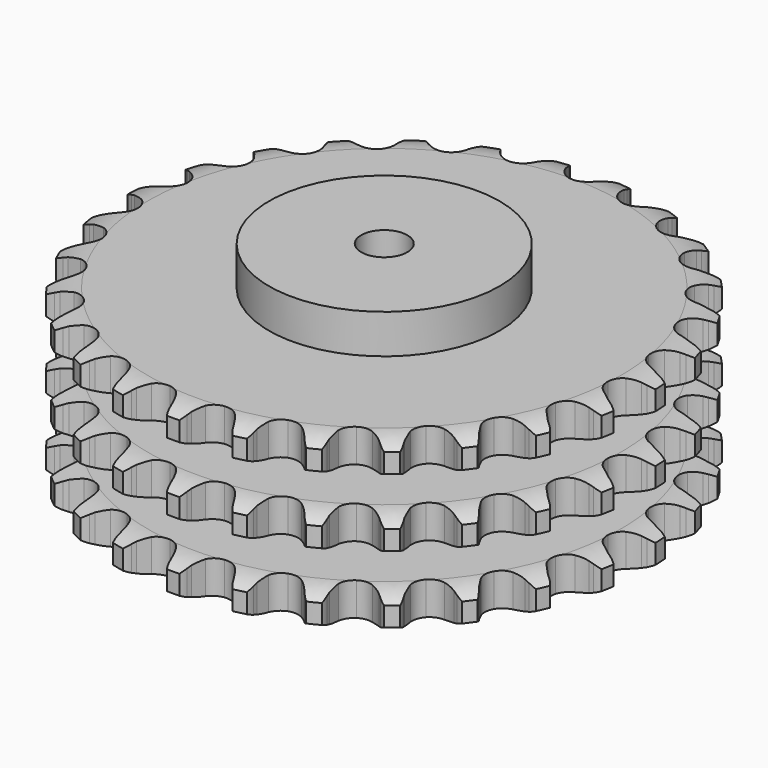
from build123d import *

# Parameters (mm, degrees)
PAD_DEPTH         = 146
SKETCH001_R       = 100
PAD001_DEPTH      = 180
SKETCH002_R       = 20
POCKET_DEPTH      = 0.001
POCKET_DEPTH_BACK = 180.001


with BuildPart() as part:
    # Sprocket → Pad (new body)
    with BuildSketch(Plane.XY):
        with BuildLine():
            ThreePointArc((-27.349241, 233.987712), (-21.95658, 229.063344), (-18.298161, 222.743046))
            Line((-18.298161, 222.743046), (-16.875709, 219.093948))
            ThreePointArc((-16.875709, 219.093948), (-14.617409, 214.311678), (-11.718382, 209.888368))
            ThreePointArc((-11.718382, 209.888368), (-6.540751, 205.607595), (0, 204.074145))
            ThreePointArc((0, 204.074145), (6.540751, 205.607595), (11.718382, 209.888368))
            ThreePointArc((11.718382, 209.888368), (14.617409, 214.311678), (16.875709, 219.093948))
            Line((16.875709, 219.093948), (18.298161, 222.743046))
            ThreePointArc((18.298161, 222.743046), (21.95658, 229.063344), (27.349241, 233.987712))
            ThreePointArc((27.349241, 233.987712), (31.460904, 227.952448), (33.563149, 220.958825))
            Line((33.563149, 220.958825), (34.105719, 217.080049))
            ThreePointArc((34.105719, 217.080049), (35.200279, 211.905886), (37.001077, 206.933245))
            ThreePointArc((37.001077, 206.933245), (41.051931, 201.573816), (47.062737, 198.5733))
            ThreePointArc((47.062737, 198.5733), (53.780818, 198.557015), (59.8061, 201.528355))
            Line((59.8061, 201.528355), (66.947364, 209.296436))
            ThreePointArc((66.947364, 209.296436), (68.018734, 210.936414), (69.173014, 212.519132))
            ThreePointArc((69.173014, 212.519132), (74.190381, 217.825376), (80.573319, 221.373374))
            ThreePointArc((80.573319, 221.373374), (83.182324, 214.552576), (83.615062, 207.262657))
            Line((83.615062, 207.262657), (83.2485, 203.363308))
            ThreePointArc((83.2485, 203.363308), (83.120311, 198.076192), (83.725799, 192.822297))
            ThreePointArc((83.725799, 192.822297), (86.431492, 186.673141), (91.588309, 182.367317))
            ThreePointArc((91.588309, 182.367317), (98.121548, 180.802174), (104.669656, 182.303896))
            Line((104.669656, 182.303896), (113.409869, 188.215699))
            ThreePointArc((113.409869, 188.215699), (114.830565, 189.564396), (116.318731, 190.838257))
            ThreePointArc((116.318731, 190.838257), (122.424558, 194.844386), (129.453668, 196.82474))
            ThreePointArc((129.453668, 196.82474), (130.419363, 189.58612), (129.159266, 182.392904))
            Line((129.159266, 182.392904), (127.903332, 178.683199))
            ThreePointArc((127.903332, 178.683199), (126.559306, 173.56816), (125.936841, 168.316249))
            ThreePointArc((125.936841, 168.316249), (127.151509, 161.708869), (131.176332, 156.329865))
            ThreePointArc((131.176332, 156.329865), (137.17252, 153.300242), (143.890444, 153.251387))
            Line((143.890444, 153.251387), (153.758419, 156.988205))
            ThreePointArc((153.758419, 156.988205), (155.45185, 157.972912), (157.193675, 158.869242))
            ThreePointArc((157.193675, 158.869242), (164.058796, 161.359284), (171.355136, 161.665233))
            ThreePointArc((171.355136, 161.665233), (170.62546, 154.399026), (167.740459, 147.690304))
            Line((167.740459, 147.690304), (165.662863, 144.370232))
            ThreePointArc((165.662863, 144.370232), (163.175456, 139.703023), (161.358595, 134.736228))
            ThreePointArc((161.358595, 134.736228), (161.016755, 128.02683), (163.692605, 121.864629))
            ThreePointArc((163.692605, 121.864629), (168.828486, 117.533854), (175.35406, 115.937056))
            Line((175.35406, 115.937056), (185.817812, 117.297436))
            ThreePointArc((185.817812, 117.297436), (187.692686, 117.865068), (189.594268, 118.335544))
            ThreePointArc((189.594268, 118.335544), (196.848581, 119.175261), (204.018805, 117.790312))
            ThreePointArc((204.018805, 117.790312), (201.633095, 110.888242), (197.278721, 105.02568))
            Line((197.278721, 105.02568), (194.491465, 102.274228))
            ThreePointArc((194.491465, 102.274228), (190.994775, 98.30646), (188.081466, 93.892543))
            ThreePointArc((188.081466, 93.892543), (186.201546, 87.442831), (187.384167, 80.82964))
            ThreePointArc((187.384167, 80.82964), (191.382864, 75.431186), (197.364294, 72.372528))
            Line((197.364294, 72.372528), (207.859719, 71.283132))
            ThreePointArc((207.859719, 71.283132), (209.814961, 71.403088), (211.773784, 71.422347))
            ThreePointArc((211.773784, 71.422347), (219.026209, 70.56647), (225.683767, 67.565285))
            ThreePointArc((225.683767, 67.565285), (221.770637, 61.399443), (216.181637, 56.699095))
            Line((216.181637, 56.699095), (212.834983, 54.664594))
            ThreePointArc((212.834983, 54.664594), (208.517516, 51.61017), (204.664816, 47.987086))
            ThreePointArc((204.664816, 47.987086), (201.348164, 42.144766), (200.9738, 35.437103))
            ThreePointArc((200.9738, 35.437103), (203.619743, 29.262002), (208.734568, 24.906379))
            Line((208.734568, 24.906379), (218.695855, 21.425936))
            ThreePointArc((218.695855, 21.425936), (220.626057, 21.091748), (222.536521, 20.658753))
            ThreePointArc((222.536521, 20.658753), (229.396077, 18.153422), (235.182059, 13.697795))
            ThreePointArc((235.182059, 13.697795), (229.952467, 8.600584), (223.430144, 5.315848))
            Line((223.430144, 5.315848), (219.704511, 4.107978))
            ThreePointArc((219.704511, 4.107978), (214.799023, 2.131563), (210.214633, -0.505367))
            ThreePointArc((210.214633, -0.505367), (205.64005, -5.425334), (203.728884, -11.865856))
            ThreePointArc((203.728884, -11.865856), (204.879429, -18.484703), (208.851907, -23.90248))
            Line((208.851907, -23.90248), (217.742041, -29.586338))
            ThreePointArc((217.742041, -29.586338), (219.543145, -30.356653), (221.302257, -31.21856))
            ThreePointArc((221.302257, -31.21856), (227.399143, -35.238282), (232.001625, -40.908146))
            ThreePointArc((232.001625, -40.908146), (225.737499, -44.661934), (218.633474, -46.353979))
            Line((218.633474, -46.353979), (214.729713, -46.6701))
            ThreePointArc((214.729713, -46.6701), (209.50066, -47.461957), (204.431725, -48.970575))
            ThreePointArc((204.431725, -48.970575), (198.845828, -52.702952), (195.50089, -58.529124))
            ThreePointArc((195.50089, -58.529124), (195.094011, -65.234893), (197.709985, -71.42275))
            Line((197.709985, -71.42275), (205.049697, -79.003605))
            ThreePointArc((205.049697, -79.003605), (206.624605, -80.168519), (208.137531, -81.412873))
            ThreePointArc((208.137531, -81.412873), (213.143063, -86.730281), (216.313923, -93.308718))
            ThreePointArc((216.313923, -93.308718), (209.352965, -95.516715), (202.050217, -95.524851))
            Line((202.050217, -95.524851), (198.17878, -94.932181))
            ThreePointArc((198.17878, -94.932181), (192.908062, -94.496791), (187.62785, -94.795767))
            ThreePointArc((187.62785, -94.795767), (181.331776, -97.139341), (176.733394, -102.037072))
            ThreePointArc((176.733394, -102.037072), (174.791025, -108.468254), (175.909468, -115.092601))
            Line((175.909468, -115.092601), (181.303071, -124.161767))
            ThreePointArc((181.303071, -124.161767), (182.566879, -125.658479), (183.752056, -127.218196))
            ThreePointArc((183.752056, -127.218196), (187.396385, -133.546628), (188.964682, -140.678994))
            ThreePointArc((188.964682, -140.678994), (181.682158, -141.222166), (174.574381, -139.545953))
            Line((174.574381, -139.545953), (170.943978, -138.076444))
            ThreePointArc((170.943978, -138.076444), (165.915741, -136.437279), (160.708908, -135.510495))
            ThreePointArc((160.708908, -135.510495), (154.04208, -136.338923), (148.438154, -140.044175))
            ThreePointArc((148.438154, -140.044175), (145.06501, -145.854062), (144.625625, -152.55778))
            Line((144.625625, -152.55778), (147.782349, -162.626336))
            ThreePointArc((147.782349, -162.626336), (148.666926, -164.374159), (149.460461, -166.165153))
            ThreePointArc((149.460461, -166.165153), (151.547119, -173.163442), (151.428306, -180.465228))
            ThreePointArc((151.428306, -180.465228), (144.216819, -179.314294), (137.687195, -176.044096))
            Line((137.687195, -176.044096), (134.493541, -173.77697))
            ThreePointArc((134.493541, -173.77697), (129.978858, -171.022397), (125.126108, -168.919817))
            ThreePointArc((125.126108, -168.919817), (118.447937, -168.188438), (112.140575, -170.501461))
            ThreePointArc((112.140575, -170.501461), (107.518502, -175.376841), (105.544977, -181.798529))
            Line((105.544977, -181.798529), (106.294642, -192.323677))
            ThreePointArc((106.294642, -192.323677), (106.7523, -194.228384), (107.111413, -196.154104))
            ThreePointArc((107.111413, -196.154104), (107.527909, -203.44497), (105.728391, -210.522535))
            ThreePointArc((105.728391, -210.522535), (98.976714, -207.739541), (93.377256, -203.051657))
            Line((93.377256, -203.051657), (90.792523, -200.109134))
            ThreePointArc((90.792523, -200.109134), (87.034782, -196.387654), (82.797727, -193.222628))
            ThreePointArc((82.797727, -193.222628), (76.468234, -190.970871), (69.797468, -191.766968))
            ThreePointArc((69.797468, -191.766968), (64.175644, -195.445008), (60.774372, -201.238473))
            Line((60.774372, -201.238473), (59.076564, -211.652799))
            ThreePointArc((59.076564, -211.652799), (59.08263, -213.611708), (58.987961, -215.568337))
            ThreePointArc((58.987961, -215.568337), (57.711841, -222.758727), (54.328631, -229.230518))
            ThreePointArc((54.328631, -229.230518), (48.400749, -224.965496), (44.033325, -219.112651))
            Line((44.033325, -219.112651), (42.196857, -215.653363))
            ThreePointArc((42.196857, -215.653363), (39.398639, -211.165601), (36.005699, -207.108757))
            ThreePointArc((36.005699, -207.108757), (30.366109, -203.458015), (23.691562, -202.694268))
            ThreePointArc((23.691562, -202.694268), (17.373061, -204.976685), (12.727406, -209.829599))
            Line((12.727406, -209.829599), (8.673653, -219.571664))
            ThreePointArc((8.673653, -219.571664), (8.2278, -221.479169), (7.684454, -223.361225))
            ThreePointArc((7.684454, -223.361225), (4.784513, -230.063503), (0, -235.580624))
            ThreePointArc((0, -235.580624), (-4.784513, -230.063503), (-7.684454, -223.361225))
            Line((-7.684454, -223.361225), (-8.673653, -219.571664))
            ThreePointArc((-8.673653, -219.571664), (-10.361496, -214.559557), (-12.727406, -209.829599))
            ThreePointArc((-12.727406, -209.829599), (-17.373061, -204.976685), (-23.691562, -202.694268))
            ThreePointArc((-23.691562, -202.694268), (-30.366109, -203.458015), (-36.005699, -207.108757))
            Line((-36.005699, -207.108757), (-42.196857, -215.653363))
            ThreePointArc((-42.196857, -215.653363), (-43.070593, -217.40663), (-44.033325, -219.112651))
            ThreePointArc((-44.033325, -219.112651), (-48.400749, -224.965496), (-54.328631, -229.230518))
            ThreePointArc((-54.328631, -229.230518), (-57.711841, -222.758727), (-58.987961, -215.568337))
            Line((-58.987961, -215.568337), (-59.076564, -211.652799))
            ThreePointArc((-59.076564, -211.652799), (-59.563039, -206.386551), (-60.774372, -201.238473))
            ThreePointArc((-60.774372, -201.238473), (-64.175644, -195.445008), (-69.797468, -191.766968))
            ThreePointArc((-69.797468, -191.766968), (-76.468234, -190.970871), (-82.797727, -193.222628))
            Line((-82.797727, -193.222628), (-90.792523, -200.109134))
            ThreePointArc((-90.792523, -200.109134), (-92.047039, -201.613644), (-93.377256, -203.051657))
            ThreePointArc((-93.377256, -203.051657), (-98.976714, -207.739541), (-105.728391, -210.522535))
            ThreePointArc((-105.728391, -210.522535), (-107.527909, -203.44497), (-107.111413, -196.154104))
            Line((-107.111413, -196.154104), (-106.294642, -192.323677))
            ThreePointArc((-106.294642, -192.323677), (-105.553524, -187.087192), (-105.544977, -181.798529))
            ThreePointArc((-105.544977, -181.798529), (-107.518502, -175.376841), (-112.140575, -170.501461))
            ThreePointArc((-112.140575, -170.501461), (-118.447937, -168.188438), (-125.126108, -168.919817))
            Line((-125.126108, -168.919817), (-134.493541, -173.77697))
            ThreePointArc((-134.493541, -173.77697), (-136.061205, -174.951614), (-137.687195, -176.044096))
            ThreePointArc((-137.687195, -176.044096), (-144.216819, -179.314294), (-151.428306, -180.465228))
            ThreePointArc((-151.428306, -180.465228), (-151.547119, -173.163442), (-149.460461, -166.165153))
            Line((-149.460461, -166.165153), (-147.782349, -162.626336))
            ThreePointArc((-147.782349, -162.626336), (-145.853591, -157.701915), (-144.625625, -152.55778))
            ThreePointArc((-144.625625, -152.55778), (-145.06501, -145.854062), (-148.438154, -140.044175))
            ThreePointArc((-148.438154, -140.044175), (-154.04208, -136.338923), (-160.708908, -135.510495))
            Line((-160.708908, -135.510495), (-170.943978, -138.076444))
            ThreePointArc((-170.943978, -138.076444), (-172.740276, -138.857898), (-174.574381, -139.545953))
            ThreePointArc((-174.574381, -139.545953), (-181.682158, -141.222166), (-188.964682, -140.678994))
            ThreePointArc((-188.964682, -140.678994), (-187.396385, -133.546628), (-183.752056, -127.218196))
            Line((-183.752056, -127.218196), (-181.303071, -124.161767))
            ThreePointArc((-181.303071, -124.161767), (-178.290653, -119.814887), (-175.909468, -115.092601))
            ThreePointArc((-175.909468, -115.092601), (-174.791025, -108.468254), (-176.733394, -102.037072))
            ThreePointArc((-176.733394, -102.037072), (-181.331776, -97.139341), (-187.62785, -94.795767))
            Line((-187.62785, -94.795767), (-198.17878, -94.932181))
            ThreePointArc((-198.17878, -94.932181), (-200.106875, -95.278316), (-202.050217, -95.524851))
            ThreePointArc((-202.050217, -95.524851), (-209.352965, -95.516715), (-216.313923, -93.308718))
            ThreePointArc((-216.313923, -93.308718), (-213.143063, -86.730281), (-208.137531, -81.412873))
            Line((-208.137531, -81.412873), (-205.049697, -79.003605))
            ThreePointArc((-205.049697, -79.003605), (-201.11602, -75.468607), (-197.709985, -71.42275))
            ThreePointArc((-197.709985, -71.42275), (-195.094011, -65.234893), (-195.50089, -58.529124))
            ThreePointArc((-195.50089, -58.529124), (-198.845828, -52.702952), (-204.431725, -48.970575))
            Line((-204.431725, -48.970575), (-214.729713, -46.6701))
            ThreePointArc((-214.729713, -46.6701), (-216.68566, -46.562255), (-218.633474, -46.353979))
            ThreePointArc((-218.633474, -46.353979), (-225.737499, -44.661934), (-232.001625, -40.908146))
            ThreePointArc((-232.001625, -40.908146), (-227.399143, -35.238282), (-221.302257, -31.21856))
            Line((-221.302257, -31.21856), (-217.742041, -29.586338))
            ThreePointArc((-217.742041, -29.586338), (-213.09917, -27.053795), (-208.851907, -23.90248))
            ThreePointArc((-208.851907, -23.90248), (-204.879429, -18.484703), (-203.728884, -11.865856))
            ThreePointArc((-203.728884, -11.865856), (-205.64005, -5.425334), (-210.214633, -0.505367))
            Line((-210.214633, -0.505367), (-219.704511, 4.107978))
            ThreePointArc((-219.704511, 4.107978), (-221.582865, 4.663988), (-223.430144, 5.315848))
            ThreePointArc((-223.430144, 5.315848), (-229.952467, 8.600584), (-235.182059, 13.697795))
            ThreePointArc((-235.182059, 13.697795), (-229.396077, 18.153422), (-222.536521, 20.658753))
            Line((-222.536521, 20.658753), (-218.695855, 21.425936))
            ThreePointArc((-218.695855, 21.425936), (-213.594089, 22.819494), (-208.734568, 24.906379))
            ThreePointArc((-208.734568, 24.906379), (-203.619743, 29.262002), (-200.9738, 35.437103))
            ThreePointArc((-200.9738, 35.437103), (-201.348164, 42.144766), (-204.664816, 47.987086))
            Line((-204.664816, 47.987086), (-212.834983, 54.664594))
            ThreePointArc((-212.834983, 54.664594), (-214.53448, 55.638795), (-216.181637, 56.699095))
            ThreePointArc((-216.181637, 56.699095), (-221.770637, 61.399443), (-225.683767, 67.565285))
            ThreePointArc((-225.683767, 67.565285), (-219.026209, 70.56647), (-211.773784, 71.422347))
            Line((-211.773784, 71.422347), (-207.859719, 71.283132))
            ThreePointArc((-207.859719, 71.283132), (-202.574095, 71.462579), (-197.364294, 72.372528))
            ThreePointArc((-197.364294, 72.372528), (-191.382864, 75.431186), (-187.384167, 80.82964))
            ThreePointArc((-187.384167, 80.82964), (-186.201546, 87.442831), (-188.081466, 93.892543))
            Line((-188.081466, 93.892543), (-194.491465, 102.274228))
            ThreePointArc((-194.491465, 102.274228), (-195.920486, 103.614101), (-197.278721, 105.02568))
            ThreePointArc((-197.278721, 105.02568), (-201.633095, 110.888242), (-204.018805, 117.790312))
            ThreePointArc((-204.018805, 117.790312), (-196.848581, 119.175261), (-189.594268, 118.335544))
            Line((-189.594268, 118.335544), (-185.817812, 117.297436))
            ThreePointArc((-185.817812, 117.297436), (-180.633279, 116.253097), (-175.35406, 115.937056))
            ThreePointArc((-175.35406, 115.937056), (-168.828486, 117.533854), (-163.692605, 121.864629))
            ThreePointArc((-163.692605, 121.864629), (-161.016755, 128.02683), (-161.358595, 134.736228))
            Line((-161.358595, 134.736228), (-165.662863, 144.370232))
            ThreePointArc((-165.662863, 144.370232), (-166.744368, 146.003543), (-167.740459, 147.690304))
            ThreePointArc((-167.740459, 147.690304), (-170.62546, 154.399026), (-171.355136, 161.665233))
            ThreePointArc((-171.355136, 161.665233), (-164.058796, 161.359284), (-157.193675, 158.869242))
            Line((-157.193675, 158.869242), (-153.758419, 156.988205))
            ThreePointArc((-153.758419, 156.988205), (-148.954476, 154.77638), (-143.890444, 153.251387))
            ThreePointArc((-143.890444, 153.251387), (-137.17252, 153.300242), (-131.176332, 156.329865))
            ThreePointArc((-131.176332, 156.329865), (-127.151509, 161.708869), (-125.936841, 168.316249))
            Line((-125.936841, 168.316249), (-127.903332, 178.683199))
            ThreePointArc((-127.903332, 178.683199), (-128.579018, 180.521896), (-129.159266, 182.392904))
            ThreePointArc((-129.159266, 182.392904), (-130.419363, 189.58612), (-129.453668, 196.82474))
            ThreePointArc((-129.453668, 196.82474), (-122.424558, 194.844386), (-116.318731, 190.838257))
            Line((-116.318731, 190.838257), (-113.409869, 188.215699))
            ThreePointArc((-113.409869, 188.215699), (-109.245499, 184.955629), (-104.669656, 182.303896))
            ThreePointArc((-104.669656, 182.303896), (-98.121548, 180.802174), (-91.588309, 182.367317))
            ThreePointArc((-91.588309, 182.367317), (-86.431492, 186.673141), (-83.725799, 192.822297))
            Line((-83.725799, 192.822297), (-83.2485, 203.363308))
            ThreePointArc((-83.2485, 203.363308), (-83.48194, 205.308267), (-83.615062, 207.262657))
            ThreePointArc((-83.615062, 207.262657), (-83.182324, 214.552576), (-80.573319, 221.373374))
            ThreePointArc((-80.573319, 221.373374), (-74.190381, 217.825376), (-69.173014, 212.519132))
            Line((-69.173014, 212.519132), (-66.947364, 209.296436))
            ThreePointArc((-66.947364, 209.296436), (-63.647069, 205.163872), (-59.8061, 201.528355))
            ThreePointArc((-59.8061, 201.528355), (-53.780818, 198.557015), (-47.062737, 198.5733))
            ThreePointArc((-47.062737, 198.5733), (-41.051931, 201.573816), (-37.001077, 206.933245))
            Line((-37.001077, 206.933245), (-34.105719, 217.080049))
            ThreePointArc((-34.105719, 217.080049), (-33.884329, 219.026416), (-33.563149, 220.958825))
            ThreePointArc((-33.563149, 220.958825), (-31.460904, 227.952448), (-27.349241, 233.987712))
        make_face()
    extrude(amount=PAD_DEPTH)

    # Sketch → Groove (revolve, cut)
    with BuildSketch(Plane.XZ):
        with BuildLine():
            ThreePointArc((205.05, 0), (217.419317, 1.522732), (229.05, 6))
            Line((229.05, 6), (229.05, 22.8))
            ThreePointArc((229.05, 22.8), (217.419317, 27.277268), (205.05, 28.8))
            Line((100, 28.8), (205.05, 28.8))
            Line((100, 28.8), (100, 58.6))
            Line((100, 58.6), (205.05, 58.6))
            ThreePointArc((205.05, 58.6), (217.419317, 60.122732), (229.05, 64.6))
            Line((229.05, 81.4), (229.05, 64.6))
            ThreePointArc((229.05, 81.4), (217.419317, 85.877268), (205.05, 87.4))
            Line((100, 87.4), (205.05, 87.4))
            Line((100, 117.2), (100, 87.4))
            Line((205.05, 117.2), (100, 117.2))
            ThreePointArc((205.05, 117.2), (217.419317, 118.722732), (229.05, 123.2))
            Line((229.05, 123.2), (229.05, 140))
            ThreePointArc((229.05, 140), (217.419317, 144.477268), (205.05, 146))
            Line((205.05, 146), (239.05, 146))
            Line((239.05, 146), (239.05, 0))
            Line((205.05, 0), (239.05, 0))
        make_face()
    revolve(axis=Axis((0, 0, 0), (0, 0, 1)), mode=Mode.SUBTRACT)

    # Sketch001 → Pad001 (join)
    with BuildSketch(Plane.XY):
        Circle(SKETCH001_R)
    extrude(amount=PAD001_DEPTH)

    # Sketch002 → Pocket (cut, two sides)
    with BuildSketch(Plane.XY) as pocket_sk:
        Circle(SKETCH002_R)
    extrude(amount=-POCKET_DEPTH, mode=Mode.SUBTRACT)
    extrude(pocket_sk.sketch, amount=POCKET_DEPTH_BACK, mode=Mode.SUBTRACT)


solid = part.part
